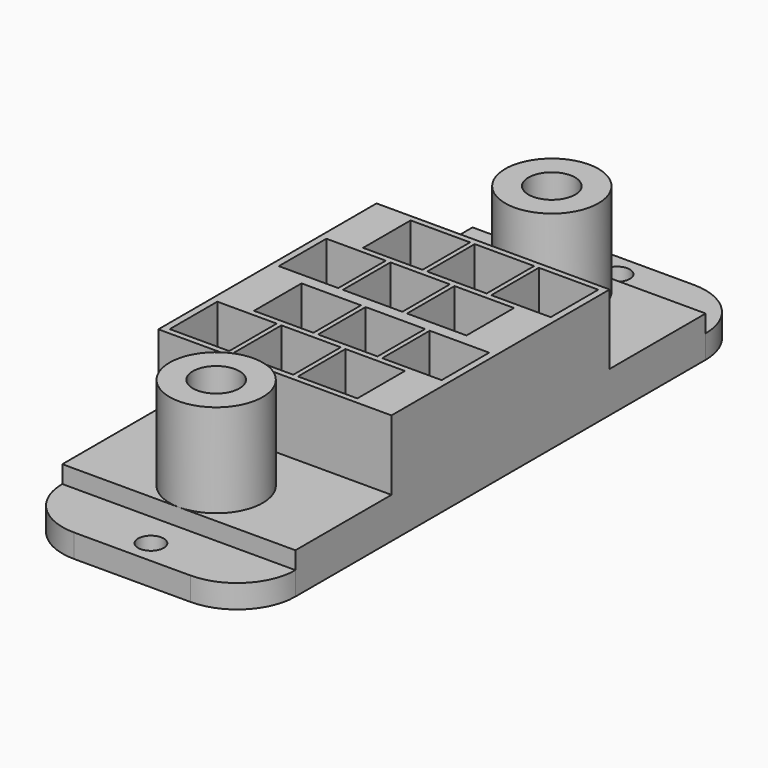
from build123d import *

# Parameters (mm, degrees)
SKETCH013_W               = 20
SKETCH013_H               = 6
PAD013_DEPTH              = 2
SKETCH009_W               = 20
SKETCH009_H               = 27
SKETCH009_R               = 2.3
SKETCH009_R_2             = 1.1
PAD009_DEPTH              = 3.5
SKETCH010_W               = 20
SKETCH010_H               = 11.7
SKETCH010_W_2             = 5.1
SKETCH010_H_2             = 5.1
PAD010_DEPTH              = 6
SKETCH011_R               = 4
SKETCH011_R_2             = 2
PAD011_DEPTH              = 8
PAD012_DEPTH              = 3
FUSION001_PLACEMENT_ANGLE = 180
SKETCH_W                  = 20
SKETCH_H                  = 27
SKETCH_R                  = 2.3
SKETCH_R_2                = 1.1
PAD_DEPTH                 = 3.5
SKETCH001_W               = 20
SKETCH001_H               = 11.7
SKETCH001_W_2             = 5.1
SKETCH001_H_2             = 5.1
PAD001_DEPTH              = 6
SKETCH002_R               = 4
SKETCH002_R_2             = 2
PAD002_DEPTH              = 8
PAD003_DEPTH              = 3
FILLET_R                  = 5


with BuildPart() as pad013:
    # Sketch013 → Pad013 (new body)
    with BuildSketch(Plane.XY.offset(2)):
        with Locations((10, 25)):
            Rectangle(SKETCH013_W, SKETCH013_H)
        with Locations((10, -25)):
            Rectangle(SKETCH013_W, SKETCH013_H)
    extrude(amount=PAD013_DEPTH)


with BuildPart() as pad009:
    # Sketch009 → Pad009 (new body)
    with BuildSketch(Plane.XY):
        with Locations((10, 13.5)):
            Rectangle(SKETCH009_W, SKETCH009_H)
        with Locations((5.875, 8.65)):
            Circle(SKETCH009_R, mode=Mode.SUBTRACT)
        with Locations((11.375, 8.65)):
            Circle(SKETCH009_R, mode=Mode.SUBTRACT)
        with Locations((16.875, 8.65)):
            Circle(SKETCH009_R, mode=Mode.SUBTRACT)
        with Locations((14.125, 3.05)):
            Circle(SKETCH009_R, mode=Mode.SUBTRACT)
        with Locations((8.625, 3.05)):
            Circle(SKETCH009_R, mode=Mode.SUBTRACT)
        with Locations((3.125, 3.05)):
            Circle(SKETCH009_R, mode=Mode.SUBTRACT)
        with Locations((10, 25)):
            Circle(SKETCH009_R_2, mode=Mode.SUBTRACT)
    extrude(amount=PAD009_DEPTH)


with BuildPart() as pad010:
    # Sketch010 → Pad010 (new body)
    with BuildSketch(Plane.XY.offset(3.5)):
        with Locations((10, 5.85)):
            Rectangle(SKETCH010_W, SKETCH010_H)
        with Locations((5.875, 8.65)):
            Rectangle(SKETCH010_W_2, SKETCH010_H_2, mode=Mode.SUBTRACT)
        with Locations((11.375, 8.65)):
            Rectangle(SKETCH010_W_2, SKETCH010_H_2, mode=Mode.SUBTRACT)
        with Locations((16.875, 8.65)):
            Rectangle(SKETCH010_W_2, SKETCH010_H_2, mode=Mode.SUBTRACT)
        with Locations((3.125, 3.05)):
            Rectangle(SKETCH010_W_2, SKETCH010_H_2, mode=Mode.SUBTRACT)
        with Locations((8.625, 3.05)):
            Rectangle(SKETCH010_W_2, SKETCH010_H_2, mode=Mode.SUBTRACT)
        with Locations((14.125, 3.05)):
            Rectangle(SKETCH010_W_2, SKETCH010_H_2, mode=Mode.SUBTRACT)
    extrude(amount=PAD010_DEPTH)


with BuildPart() as pad011:
    # Sketch011 → Pad011 (new body)
    with BuildSketch(Plane.XY.offset(3.5)):
        with Locations((10, 18)):
            Circle(SKETCH011_R)
        with Locations((10, 18)):
            Circle(SKETCH011_R_2, mode=Mode.SUBTRACT)
    extrude(amount=PAD011_DEPTH)


with BuildPart() as fusion001:
    # Sketch012 → Pad012 (new body)
    with BuildSketch(Plane.XY):
        Polygon((3.14451, 10.296382), (4.812228, 8.962195), (5.229761, 9.506803), (3.848642, 11.027596), align=None)
        Polygon((8.80602, 10.523404), (10.348319, 9.131856), (10.816751, 9.610404), (9.51401, 11.285856), align=None)
        Polygon((14.379175, 10.541558), (16.031153, 8.980349), (16.575762, 9.434188), (15.141627, 11.176934), align=None)
        Polygon((3.671404, 2.070844), (4.913085, 0.518744), (5.689134, 1.228275), (4.18138, 2.602993), align=None)
        Polygon((8.904199, 2.181709), (10.38978, 0.496571), (11.121485, 1.250448), (9.547212, 2.669512), align=None)
        Polygon((14.558277, 2.181709), (15.66692, 0.518744), (16.553833, 1.33914), (15.090425, 2.602993), align=None)
    extrude(amount=PAD012_DEPTH)

    # Fusion001: union Pad009, Pad010, Pad011
    add(pad009.part)
    add(pad010.part)
    add(pad011.part)


with BuildPart() as fusion001_1:
    # Fusion001 placement: moved
    add(fusion001.part.moved(Location((20, 0, 0))).rotate(Axis((20, 0, 0), (0, 0, 1)), FUSION001_PLACEMENT_ANGLE))


with BuildPart() as pad:
    # Sketch → Pad (new body)
    with BuildSketch(Plane.XY):
        with Locations((10, 13.5)):
            Rectangle(SKETCH_W, SKETCH_H)
        with Locations((5.875, 8.65)):
            Circle(SKETCH_R, mode=Mode.SUBTRACT)
        with Locations((11.375, 8.65)):
            Circle(SKETCH_R, mode=Mode.SUBTRACT)
        with Locations((16.875, 8.65)):
            Circle(SKETCH_R, mode=Mode.SUBTRACT)
        with Locations((14.125, 3.05)):
            Circle(SKETCH_R, mode=Mode.SUBTRACT)
        with Locations((8.625, 3.05)):
            Circle(SKETCH_R, mode=Mode.SUBTRACT)
        with Locations((3.125, 3.05)):
            Circle(SKETCH_R, mode=Mode.SUBTRACT)
        with Locations((10, 25)):
            Circle(SKETCH_R_2, mode=Mode.SUBTRACT)
    extrude(amount=PAD_DEPTH)


with BuildPart() as pad001:
    # Sketch001 → Pad001 (new body)
    with BuildSketch(Plane.XY.offset(3.5)):
        with Locations((10, 5.85)):
            Rectangle(SKETCH001_W, SKETCH001_H)
        with Locations((5.875, 8.65)):
            Rectangle(SKETCH001_W_2, SKETCH001_H_2, mode=Mode.SUBTRACT)
        with Locations((11.375, 8.65)):
            Rectangle(SKETCH001_W_2, SKETCH001_H_2, mode=Mode.SUBTRACT)
        with Locations((16.875, 8.65)):
            Rectangle(SKETCH001_W_2, SKETCH001_H_2, mode=Mode.SUBTRACT)
        with Locations((3.125, 3.05)):
            Rectangle(SKETCH001_W_2, SKETCH001_H_2, mode=Mode.SUBTRACT)
        with Locations((8.625, 3.05)):
            Rectangle(SKETCH001_W_2, SKETCH001_H_2, mode=Mode.SUBTRACT)
        with Locations((14.125, 3.05)):
            Rectangle(SKETCH001_W_2, SKETCH001_H_2, mode=Mode.SUBTRACT)
    extrude(amount=PAD001_DEPTH)


with BuildPart() as pad002:
    # Sketch002 → Pad002 (new body)
    with BuildSketch(Plane.XY.offset(3.5)):
        with Locations((10, 18)):
            Circle(SKETCH002_R)
        with Locations((10, 18)):
            Circle(SKETCH002_R_2, mode=Mode.SUBTRACT)
    extrude(amount=PAD002_DEPTH)


with BuildPart() as cut:
    # Sketch003 → Pad003 (new body)
    with BuildSketch(Plane.XY):
        Polygon((3.14451, 10.296382), (4.812228, 8.962195), (5.229761, 9.506803), (3.848642, 11.027596), align=None)
        Polygon((8.80602, 10.523404), (10.348319, 9.131856), (10.816751, 9.610404), (9.51401, 11.285856), align=None)
        Polygon((14.379175, 10.541558), (16.031153, 8.980349), (16.575762, 9.434188), (15.141627, 11.176934), align=None)
        Polygon((3.671404, 2.070844), (4.913085, 0.518744), (5.689134, 1.228275), (4.18138, 2.602993), align=None)
        Polygon((8.904199, 2.181709), (10.38978, 0.496571), (11.121485, 1.250448), (9.547212, 2.669512), align=None)
        Polygon((14.558277, 2.181709), (15.66692, 0.518744), (16.553833, 1.33914), (15.090425, 2.602993), align=None)
    extrude(amount=PAD003_DEPTH)

    # Fusion: union Pad, Pad001, Pad002
    add(pad.part)
    add(pad001.part)
    add(pad002.part)

    # Fusion002: union Fusion001
    add(fusion001_1.part)

    # Fillet
    fillet_edges = [cut.edges().sort_by_distance(p)[0] for p in [
        (0, 27, 1.75),
        (20, 27, 1.75),
        (20, -27, 1.75),
        (0, -27, 1.75),
    ]]
    fillet(fillet_edges, radius=FILLET_R)

    # Cut: cut Pad013
    add(pad013.part, mode=Mode.SUBTRACT)


solid = cut.part
